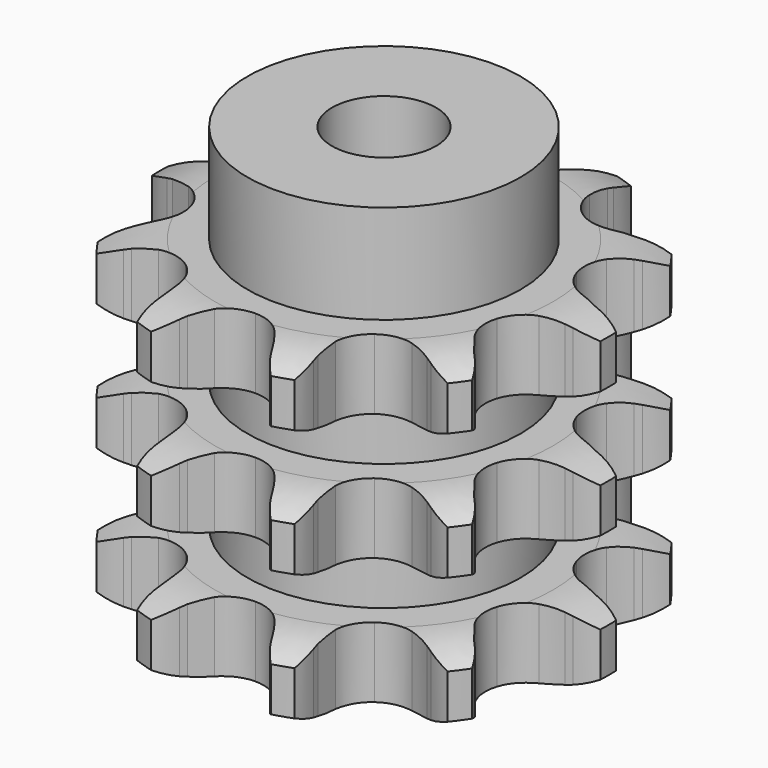
from build123d import *

# Parameters (mm, degrees)
PAD_DEPTH         = 49.8
SKETCH001_R       = 21
PAD001_DEPTH      = 65
SKETCH002_R       = 8
POCKET_DEPTH      = 0.001
POCKET_DEPTH_BACK = 65.001


with BuildPart() as part:
    # Sprocket → Pad (new body)
    with BuildSketch(Plane.XY):
        with BuildLine():
            ThreePointArc((-11.272984, 34.694676), (-8.850832, 32.92101), (-7.04431, 30.523264))
            Line((-7.04431, 30.523264), (-6.548899, 29.614617))
            ThreePointArc((-6.548899, 29.614617), (-5.65324, 28.164421), (-4.6062, 26.819439))
            ThreePointArc((-4.6062, 26.819439), (-2.530987, 25.269804), (0, 24.720272))
            ThreePointArc((0, 24.720272), (2.530987, 25.269804), (4.6062, 26.819439))
            ThreePointArc((4.6062, 26.819439), (5.65324, 28.164421), (6.548899, 29.614617))
            Line((6.548899, 29.614617), (7.04431, 30.523264))
            ThreePointArc((7.04431, 30.523264), (8.850832, 32.92101), (11.272984, 34.694676))
            ThreePointArc((11.272984, 34.694676), (12.190011, 31.836045), (12.242158, 28.834381))
            Line((12.242158, 28.834381), (12.108864, 27.808075))
            ThreePointArc((12.108864, 27.808075), (11.981064, 26.108387), (12.037576, 24.404838))
            ThreePointArc((12.037576, 24.404838), (12.805606, 21.931377), (14.530212, 19.999121))
            ThreePointArc((14.530212, 19.999121), (16.900829, 18.956024), (19.490565, 18.989925))
            Line((19.490565, 18.989925), (22.705206, 20.109382))
            ThreePointArc((22.705206, 20.109382), (23.169003, 20.339016), (23.640091, 20.553298))
            ThreePointArc((23.640091, 20.553298), (26.510958, 21.431268), (29.513055, 21.442489))
            ThreePointArc((29.513055, 21.442489), (28.574684, 18.590793), (26.852538, 16.131744))
            Line((26.852538, 16.131744), (26.141453, 15.379793))
            ThreePointArc((26.141453, 15.379793), (25.039009, 14.079836), (24.083408, 12.668419))
            ThreePointArc((24.083408, 12.668419), (23.250893, 10.21591), (23.510376, 7.638984))
            ThreePointArc((23.510376, 7.638984), (24.815129, 5.401687), (26.930196, 3.906906))
            Line((26.930196, 3.906906), (30.188896, 2.923046))
            ThreePointArc((30.188896, 2.923046), (30.699091, 2.836211), (31.206161, 2.73267))
            ThreePointArc((31.206161, 2.73267), (34.044799, 1.75551), (36.480142, 0))
            ThreePointArc((36.480142, 0), (34.044799, -1.75551), (31.206161, -2.73267))
            Line((31.206161, -2.73267), (30.188896, -2.923046))
            ThreePointArc((30.188896, -2.923046), (28.532904, -3.326734), (26.930196, -3.906906))
            ThreePointArc((26.930196, -3.906906), (24.815129, -5.401687), (23.510376, -7.638984))
            ThreePointArc((23.510376, -7.638984), (23.250893, -10.21591), (24.083408, -12.668419))
            Line((24.083408, -12.668419), (26.141453, -15.379793))
            ThreePointArc((26.141453, -15.379793), (26.50317, -15.74993), (26.852538, -16.131744))
            ThreePointArc((26.852538, -16.131744), (28.574684, -18.590793), (29.513055, -21.442489))
            ThreePointArc((29.513055, -21.442489), (26.510958, -21.431268), (23.640091, -20.553298))
            Line((23.640091, -20.553298), (22.705206, -20.109382))
            ThreePointArc((22.705206, -20.109382), (21.128199, -19.462604), (19.490565, -18.989925))
            ThreePointArc((19.490565, -18.989925), (16.900829, -18.956024), (14.530212, -19.999121))
            ThreePointArc((14.530212, -19.999121), (12.805606, -21.931377), (12.037576, -24.404838))
            Line((12.037576, -24.404838), (12.108864, -27.808075))
            ThreePointArc((12.108864, -27.808075), (12.183938, -28.320133), (12.242158, -28.834381))
            ThreePointArc((12.242158, -28.834381), (12.190011, -31.836045), (11.272984, -34.694676))
            ThreePointArc((11.272984, -34.694676), (8.850832, -32.92101), (7.04431, -30.523264))
            Line((7.04431, -30.523264), (6.548899, -29.614617))
            ThreePointArc((6.548899, -29.614617), (5.65324, -28.164421), (4.6062, -26.819439))
            ThreePointArc((4.6062, -26.819439), (2.530987, -25.269804), (0, -24.720272))
            ThreePointArc((0, -24.720272), (-2.530987, -25.269804), (-4.6062, -26.819439))
            Line((-4.6062, -26.819439), (-6.548899, -29.614617))
            ThreePointArc((-6.548899, -29.614617), (-6.789144, -30.073008), (-7.04431, -30.523264))
            ThreePointArc((-7.04431, -30.523264), (-8.850832, -32.92101), (-11.272984, -34.694676))
            ThreePointArc((-11.272984, -34.694676), (-12.190011, -31.836045), (-12.242158, -28.834381))
            Line((-12.242158, -28.834381), (-12.108864, -27.808075))
            ThreePointArc((-12.108864, -27.808075), (-11.981064, -26.108387), (-12.037576, -24.404838))
            ThreePointArc((-12.037576, -24.404838), (-12.805606, -21.931377), (-14.530212, -19.999121))
            ThreePointArc((-14.530212, -19.999121), (-16.900829, -18.956024), (-19.490565, -18.989925))
            Line((-19.490565, -18.989925), (-22.705206, -20.109382))
            ThreePointArc((-22.705206, -20.109382), (-23.169003, -20.339016), (-23.640091, -20.553298))
            ThreePointArc((-23.640091, -20.553298), (-26.510958, -21.431268), (-29.513055, -21.442489))
            ThreePointArc((-29.513055, -21.442489), (-28.574684, -18.590793), (-26.852538, -16.131744))
            Line((-26.852538, -16.131744), (-26.141453, -15.379793))
            ThreePointArc((-26.141453, -15.379793), (-25.039009, -14.079836), (-24.083408, -12.668419))
            ThreePointArc((-24.083408, -12.668419), (-23.250893, -10.21591), (-23.510376, -7.638984))
            ThreePointArc((-23.510376, -7.638984), (-24.815129, -5.401687), (-26.930196, -3.906906))
            Line((-26.930196, -3.906906), (-30.188896, -2.923046))
            ThreePointArc((-30.188896, -2.923046), (-30.699091, -2.836211), (-31.206161, -2.73267))
            ThreePointArc((-31.206161, -2.73267), (-34.044799, -1.75551), (-36.480142, 0))
            ThreePointArc((-36.480142, 0), (-34.044799, 1.75551), (-31.206161, 2.73267))
            Line((-31.206161, 2.73267), (-30.188896, 2.923046))
            ThreePointArc((-30.188896, 2.923046), (-28.532904, 3.326734), (-26.930196, 3.906906))
            ThreePointArc((-26.930196, 3.906906), (-24.815129, 5.401687), (-23.510376, 7.638984))
            ThreePointArc((-23.510376, 7.638984), (-23.250893, 10.21591), (-24.083408, 12.668419))
            Line((-24.083408, 12.668419), (-26.141453, 15.379793))
            ThreePointArc((-26.141453, 15.379793), (-26.50317, 15.74993), (-26.852538, 16.131744))
            ThreePointArc((-26.852538, 16.131744), (-28.574684, 18.590793), (-29.513055, 21.442489))
            ThreePointArc((-29.513055, 21.442489), (-26.510958, 21.431268), (-23.640091, 20.553298))
            Line((-23.640091, 20.553298), (-22.705206, 20.109382))
            ThreePointArc((-22.705206, 20.109382), (-21.128199, 19.462604), (-19.490565, 18.989925))
            ThreePointArc((-19.490565, 18.989925), (-16.900829, 18.956024), (-14.530212, 19.999121))
            ThreePointArc((-14.530212, 19.999121), (-12.805606, 21.931377), (-12.037576, 24.404838))
            Line((-12.037576, 24.404838), (-12.108864, 27.808075))
            ThreePointArc((-12.108864, 27.808075), (-12.183938, 28.320133), (-12.242158, 28.834381))
            ThreePointArc((-12.242158, 28.834381), (-12.190011, 31.836045), (-11.272984, 34.694676))
        make_face()
    extrude(amount=PAD_DEPTH)

    # Sketch → Groove (revolve, cut)
    with BuildSketch(Plane.XZ):
        with BuildLine():
            ThreePointArc((26.014719, 0), (30.373618, 0.506758), (34.5, 2))
            Line((34.5, 2), (34.5, 8.8))
            ThreePointArc((34.5, 8.8), (30.373618, 10.293242), (26.014719, 10.8))
            Line((21, 10.8), (26.014719, 10.8))
            Line((21, 10.8), (21, 19.5))
            Line((21, 19.5), (26.014719, 19.5))
            ThreePointArc((26.014719, 19.5), (30.373618, 20.006758), (34.5, 21.5))
            Line((34.5, 28.3), (34.5, 21.5))
            ThreePointArc((34.5, 28.3), (30.373618, 29.793242), (26.014719, 30.3))
            Line((21, 30.3), (26.014719, 30.3))
            Line((21, 39), (21, 30.3))
            Line((26.014719, 39), (21, 39))
            ThreePointArc((26.014719, 39), (30.373618, 39.506758), (34.5, 41))
            Line((34.5, 41), (34.5, 47.8))
            ThreePointArc((34.5, 47.8), (30.373618, 49.293242), (26.014719, 49.8))
            Line((26.014719, 49.8), (44.5, 49.8))
            Line((44.5, 49.8), (44.5, 0))
            Line((26.014719, 0), (44.5, 0))
        make_face()
    revolve(axis=Axis((0, 0, 0), (0, 0, 1)), mode=Mode.SUBTRACT)

    # Sketch001 → Pad001 (join)
    with BuildSketch(Plane.XY):
        Circle(SKETCH001_R)
    extrude(amount=PAD001_DEPTH)

    # Sketch002 → Pocket (cut, two sides)
    with BuildSketch(Plane.XY) as pocket_sk:
        Circle(SKETCH002_R)
    extrude(amount=-POCKET_DEPTH, mode=Mode.SUBTRACT)
    extrude(pocket_sk.sketch, amount=POCKET_DEPTH_BACK, mode=Mode.SUBTRACT)


solid = part.part
